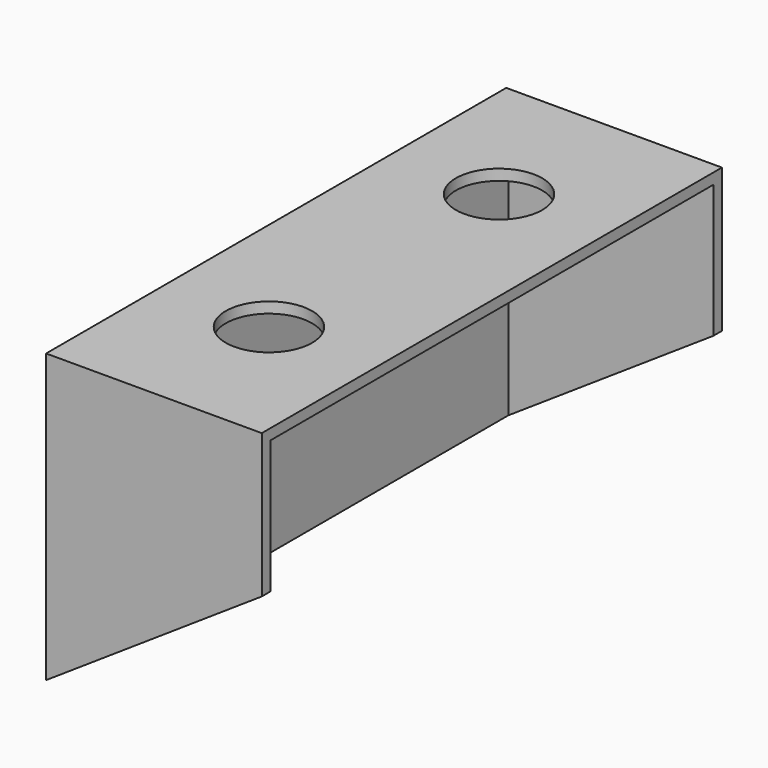
from build123d import *

# Parameters (mm, degrees)
F1_DEPTH = 50.8
F2_R     = 7.62
F3_DEPTH = 50.801
F4_T     = -1.905


with BuildPart() as f1:
    # F0 (on Front) → F1 (new body, symmetric)
    with BuildSketch(Plane.XZ):
        Polygon((0, 50.8), (0, 0), (38.1, 25.4), (38.1, 50.8), align=None)
    extrude(amount=F1_DEPTH, both=True)

    # F2 (on face) → F3 (cut, through all)
    with BuildSketch(Plane.XY.offset(50.8)):
        with Locations((19.05, 25.4)):
            Circle(F2_R)
        with Locations((19.05, -25.4)):
            Circle(F2_R)
    extrude(amount=-F3_DEPTH, mode=Mode.SUBTRACT)

    # F4
    f4_openings = [f1.faces().sort_by_distance(p)[0] for p in [
        (19.05, 0, 12.7),
        (38.1, 0, 38.1),
        (11.43, -25.4, 29.104782),
        (11.43, 25.4, 29.104782),
    ]]
    offset(amount=F4_T, openings=f4_openings)


solid = f1.part
